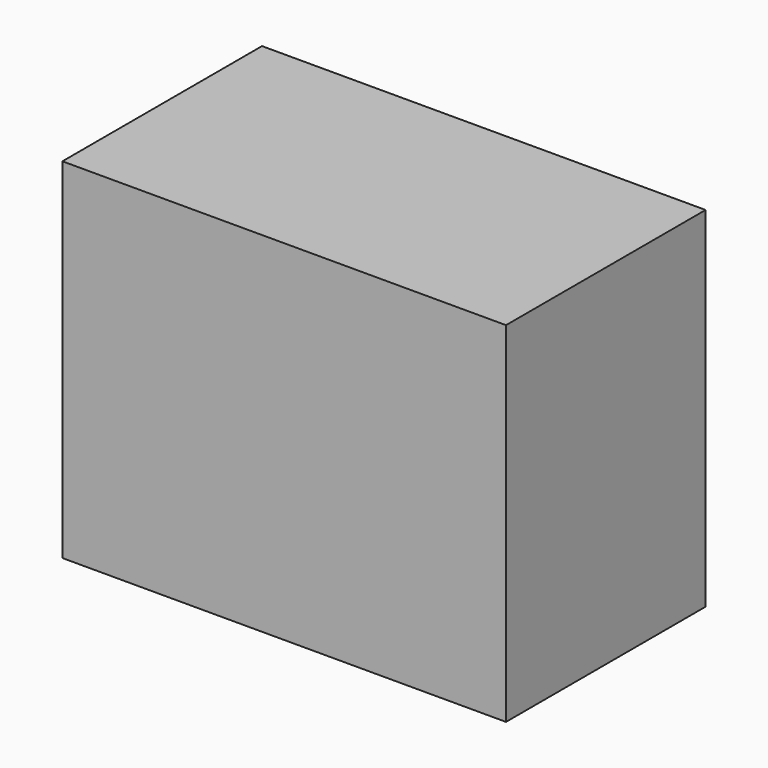
from build123d import *

# Parameters (mm, degrees)
F0_W     = 44.45
F0_H     = 35
F1_DEPTH = 25
F2_T     = -7
F3_D     = 2
F3_DEPTH = 3
F3_TIP   = 0.600860619


with BuildPart() as f1:
    # F0 (on Front) → F1 (new body)
    with BuildSketch(Plane.XZ):
        with Locations((-22.225, 17.5)):
            Rectangle(F0_W, F0_H)
    extrude(amount=F1_DEPTH)

    # F2
    f2_openings = [f1.faces().sort_by_distance(p)[0] for p in [
        (-22.225, 0, 17.5),
    ]]
    offset(amount=F2_T, openings=f2_openings)

    # F3
    with Locations(Plane(origin=(0, 0, 0), x_dir=(1, 0, 0), z_dir=(0, 1, 0))):
        with Locations((-3.7769665942, -30.7552888989), (-40.1591621339, -30.7552888989), (-40.1591621339, -4.2394511402), (-3.7769665942, -4.2394511402)):
            Hole(F3_D / 2, depth=F3_DEPTH)
            with Locations((0, 0, -(F3_DEPTH + F3_TIP / 2))):  # 118° drill point
                Cone(0, F3_D / 2, F3_TIP, mode=Mode.SUBTRACT)


solid = f1.part
